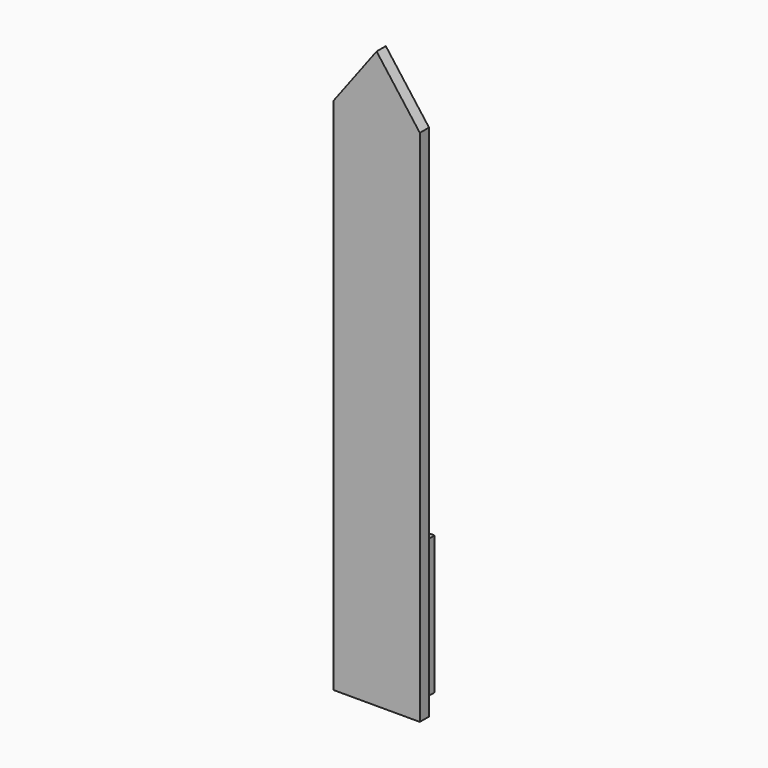
from build123d import *

# Parameters (mm, degrees)
F1_DEPTH = 2.54
F2_W     = 7.62
F2_H     = 30.48
F3_DEPTH = 7.62
F4_R     = 3.175
F5_DEPTH = 25.4


with BuildPart() as f1:
    # F0 (on Front) → F1 (new body)
    with BuildSketch(Plane.XZ):
        Polygon((0, 114.3), (0, 0), (19.05, 0), (19.05, 114.3), (9.525, 127), align=None)
    extrude(amount=F1_DEPTH)

    # F2 (on face) → F3 (join)
    with BuildSketch(Plane(origin=(0, 0, 0), x_dir=(-1, 0, 0), z_dir=(0, 1, 0))):
        with Locations((-10.377643, 15.24)):
            Rectangle(F2_W, F2_H)
    extrude(amount=F3_DEPTH)

    # F4 (on face) → F5 (cut)
    with BuildSketch(Plane(origin=(0, 0, 0), x_dir=(1, 0, 0), z_dir=(0, 0, -1))):
        with Locations((10.377643, -3.81)):
            Circle(F4_R)
    extrude(amount=-F5_DEPTH, mode=Mode.SUBTRACT)


solid = f1.part
